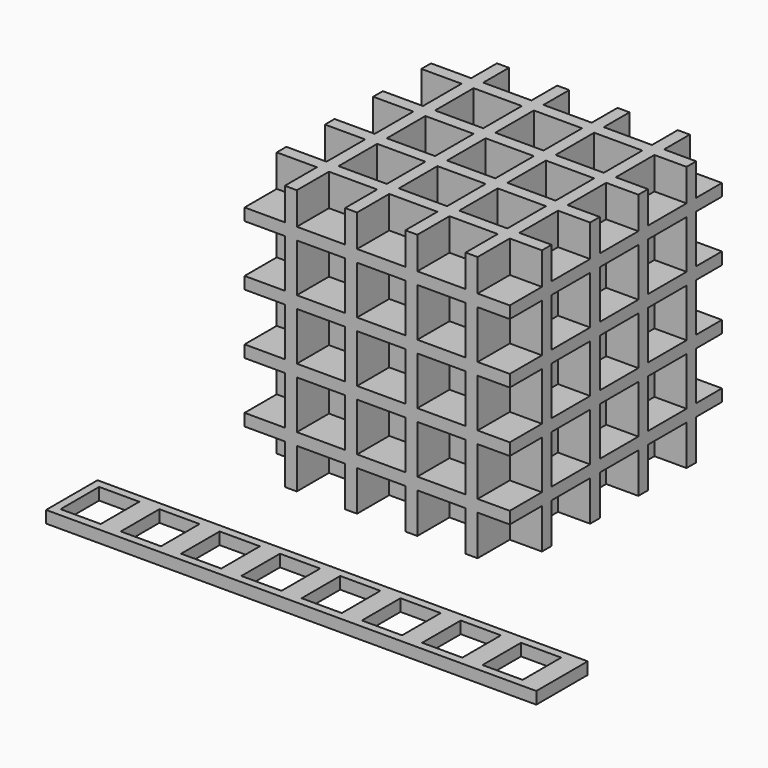
from build123d import *

# Parameters (mm, degrees)
BOX_W            = 10
BOX_H            = 12
BOX_DEPTH        = 10
ARRAY_X_COUNT    = 8
ARRAY_X_PITCH    = 15
BOX001_W         = 122
BOX001_H         = 16
BOX001_DEPTH     = 3
BOX002_W         = 12
BOX002_H         = 12
BOX002_DEPTH     = 12
ARRAY001_X_COUNT = 5
ARRAY001_X_PITCH = 15
ARRAY001_Y_COUNT = 5
ARRAY001_Y_PITCH = 15
ARRAY001_Z_COUNT = 5
ARRAY001_Z_PITCH = 15
BOX003_W         = 66
BOX003_H         = 66
BOX003_DEPTH     = 66


with BuildPart() as array:
    # Box → Box (new body)
    with BuildSketch(Plane(origin=(0, -1, 0), x_dir=(1, 0, 0), z_dir=(0, 0, 1))):
        with Locations((5, 6)):
            Rectangle(BOX_W, BOX_H)
    extrude(amount=BOX_DEPTH)

    # Array X: Array ×8


with BuildPart() as array_1:
    add(array.part)
    with Locations(*[(i * ARRAY_X_PITCH, 0, 0) for i in range(1, ARRAY_X_COUNT)]):
        add(array.part)


with BuildPart() as cut:
    # Box001 → Box001 (new body)
    with BuildSketch(Plane(origin=(-2, -3, 0), x_dir=(1, 0, 0), z_dir=(0, 0, 1))):
        with Locations((61, 8)):
            Rectangle(BOX001_W, BOX001_H)
    extrude(amount=BOX001_DEPTH)

    # Cut: cut Array
    add(array_1.part, mode=Mode.SUBTRACT)


with BuildPart() as cut_1:
    # Cut placement: moved
    add(cut.part.moved(Location((-15, -33, 0))))


with BuildPart() as array001:
    # Box002 → Box002 (new body)
    with BuildSketch(Plane.XY):
        with Locations((6, 6)):
            Rectangle(BOX002_W, BOX002_H)
    extrude(amount=BOX002_DEPTH)

    # Array001 X: Array001 ×5


with BuildPart() as array001_1:
    add(array001.part)
    with Locations(*[(i * ARRAY001_X_PITCH, 0, 0) for i in range(1, ARRAY001_X_COUNT)]):
        add(array001.part)

    # Array001 Y: Array001 ×5


with BuildPart() as array001_2:
    add(array001_1.part)
    with Locations(*[(0, i * ARRAY001_Y_PITCH, 0) for i in range(1, ARRAY001_Y_COUNT)]):
        add(array001_1.part)

    # Array001 Z: Array001 ×5


with BuildPart() as array001_3:
    add(array001_2.part)
    with Locations(*[(0, 0, i * ARRAY001_Z_PITCH) for i in range(1, ARRAY001_Z_COUNT)]):
        add(array001_2.part)


with BuildPart() as caja:
    # Box003 → Box003 (new body)
    with BuildSketch(Plane(origin=(2, 2, 2), x_dir=(1, 0, 0), z_dir=(0, 0, 1))):
        with Locations((33, 33)):
            Rectangle(BOX003_W, BOX003_H)
    extrude(amount=BOX003_DEPTH)

    # Cut001: cut Array001
    add(array001_3.part, mode=Mode.SUBTRACT)


solid = Compound([cut_1.part, caja.part])
